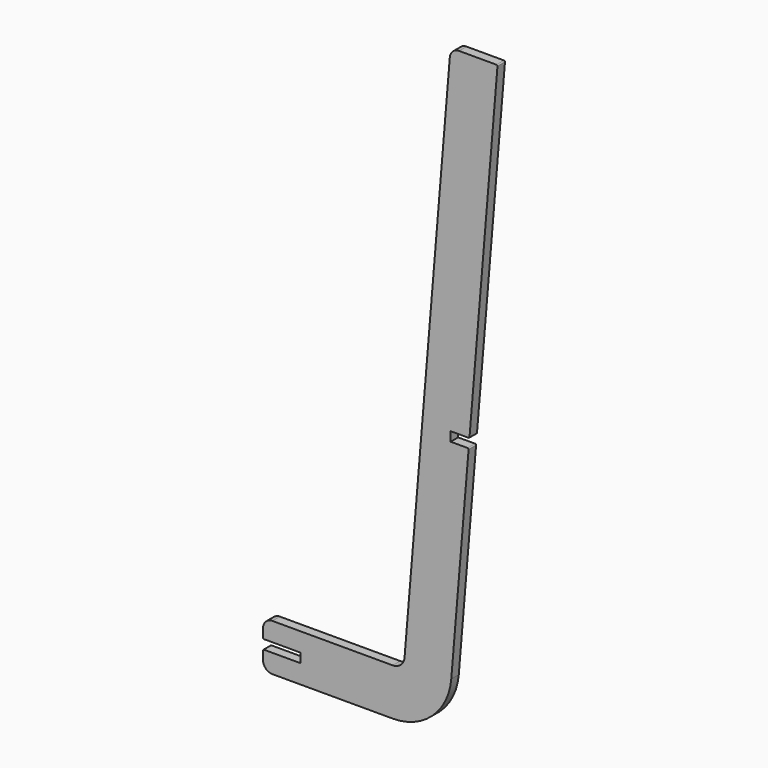
from build123d import *

# Parameters (mm, degrees)
F1_DEPTH = 5
F2_R     = 0.5
F3_R     = 0.5
F4_R     = 0.5


with BuildPart() as f1:
    # F0 (on Front) → F1 (new body)
    with BuildSketch(Plane.XZ):
        with BuildLine():
            ThreePointArc((29.600664, 150), (26.215117, 148.679411), (24.617936, 145.415227))
            Line((24.617936, 145.415227), (0.485222, -144.177339))
            ThreePointArc((0.485222, -144.177339), (-1.543199, -148.322853), (-5.842844, -150))
            Line((-5.842844, -150), (-70, -150))
            ThreePointArc((-70, -150), (-73.535534, -151.464466), (-75, -155))
            Line((-75, -155), (-75, -160.025))
            Line((-75, -160.025), (-55, -160.025))
            Line((-55, -160.025), (-55, -164.975))
            Line((-55, -164.975), (-75, -164.975))
            Line((-75, -164.975), (-75, -170))
            ThreePointArc((-75, -170), (-73.535534, -173.535534), (-70, -175))
            Line((-70, -175), (-5.842844, -175))
            ThreePointArc((-5.842844, -175), (15.384539, -166.71991), (25.398866, -146.253476))
            Line((25.398866, -146.253476), (34.674155, -34.95))
            Line((34.674155, -34.95), (25.086655, -34.95))
            Line((25.086655, -34.95), (25.086655, -30))
            Line((25.086655, -30), (35.086655, -30))
            Line((35.086655, -30), (50.041528, 149.458477))
            ThreePointArc((50.041528, 149.458477), (49.911197, 149.838555), (49.543256, 150))
            Line((49.543256, 150), (29.600664, 150))
        make_face()
    extrude(amount=F1_DEPTH)

    # F2
    f2_edges = [f1.edges().sort_by_distance(p)[0] for p in [
        (35.086655, -2.5, -30),
    ]]
    fillet(f2_edges, radius=F2_R)

    # F3
    f3_edges = [f1.edges().sort_by_distance(p)[0] for p in [
        (34.674155, -2.5, -34.95),
    ]]
    fillet(f3_edges, radius=F3_R)

    # F4
    f4_edges = [f1.edges().sort_by_distance(p)[0] for p in [
        (-75, -2.5, -164.975),
        (-75, -2.5, -160.025),
    ]]
    fillet(f4_edges, radius=F4_R)


solid = f1.part
